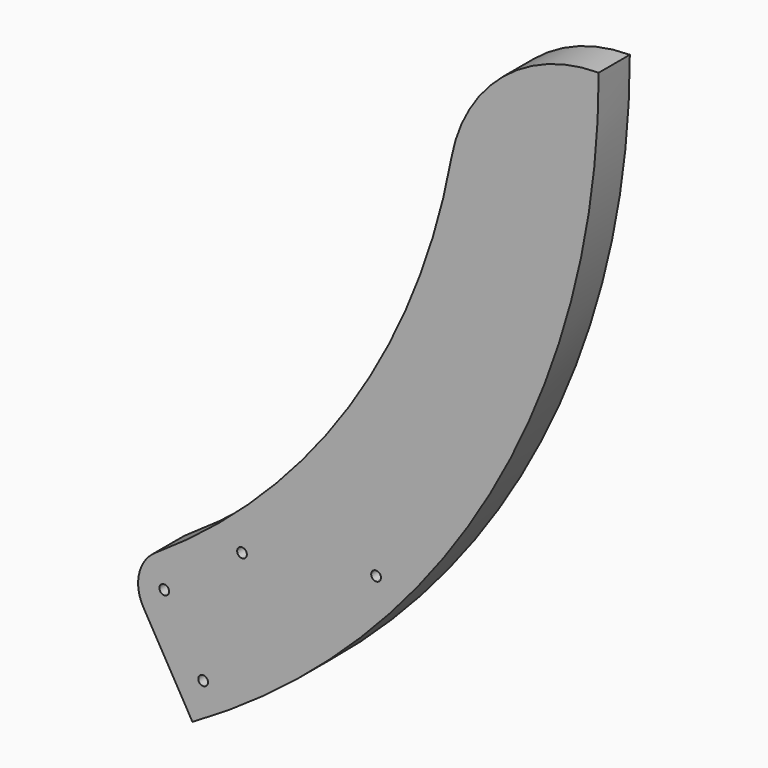
from build123d import *

# Parameters (mm, degrees)
F0_R     = 2.5
F1_DEPTH = 20


with BuildPart() as f1:
    # F0 (on Front) → F1 (new body)
    with BuildSketch(Plane.XZ):
        with BuildLine():
            ThreePointArc((209, 56.001381), (361.998619, 209), (418, 418))
            ThreePointArc((418, 418), (368.707917, 400.166928), (342.23584, 354.923618))
            ThreePointArc((342.23584, 354.923618), (289.642353, 225.097674), (190.122015, 126.525097))
            ThreePointArc((190.122015, 126.525097), (181.596476, 114.42298), (183.72806, 99.773665))
            Line((183.72806, 99.773665), (209, 56.001381))
        make_face()
        with Locations((214.490381, 76.491762)):
            Circle(F0_R, mode=Mode.SUBTRACT)
        with Locations((194.490381, 111.132778)):
            Circle(F0_R, mode=Mode.SUBTRACT)
        with Locations((234.484058, 140.896722)):
            Circle(F0_R, mode=Mode.SUBTRACT)
        with Locations((303.4611, 152.820135)):
            Circle(F0_R, mode=Mode.SUBTRACT)
    extrude(amount=F1_DEPTH)


solid = f1.part
